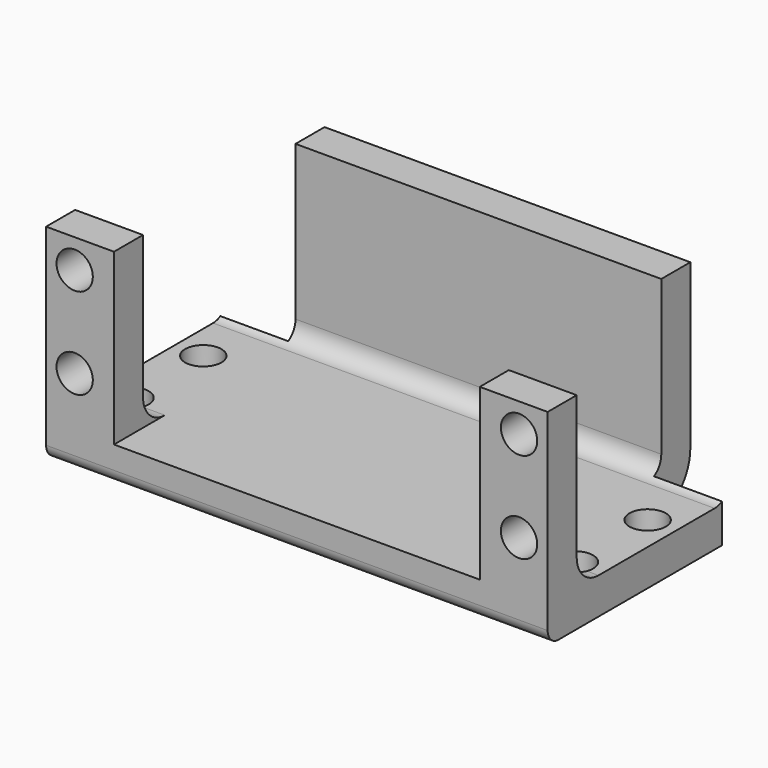
from build123d import *

# Parameters (mm, degrees)
CYLINDER015_R          = 2
CYLINDER015_DEPTH      = 15
CYLINDER015_ROLL_ANGLE = 90
CYLINDER007_R          = 2
CYLINDER007_DEPTH      = 15
CYLINDER006_R          = 2
CYLINDER006_DEPTH      = 15
CYLINDER005_R          = 2
CYLINDER005_DEPTH      = 15
CYLINDER004_R          = 2
CYLINDER004_DEPTH      = 15
CYLINDER003_R          = 2
CYLINDER003_DEPTH      = 15
CYLINDER003_ROLL_ANGLE = 90
CYLINDER002_R          = 2
CYLINDER002_DEPTH      = 15
CYLINDER002_ROLL_ANGLE = 90
CYLINDER001_R          = 2
CYLINDER001_DEPTH      = 15
CYLINDER001_ROLL_ANGLE = 90
CYLINDER_R             = 2
CYLINDER_DEPTH         = 15
CYLINDER_ROLL_ANGLE    = 90
PAD002_DEPTH           = 40.3
BOX_W                  = 40.3
BOX_H                  = 15
BOX_DEPTH              = 25
PAD003_DEPTH           = 55.26
FILLET_R               = 3
FILLET001_R            = 1.5
FILLET002_R            = 2
FILLET005_R            = 5


with BuildPart() as cilindro015:
    # Cylinder015 → Cylinder015 (new body)
    with BuildSketch(Plane.XY):
        Circle(CYLINDER015_R)
    extrude(amount=CYLINDER015_DEPTH)


with BuildPart() as cilindro015_1:
    # Cylinder015 roll: moved
    add(cilindro015.part.rotate(Axis((0, 0, 0), (1, 0, 0)), CYLINDER015_ROLL_ANGLE))


with BuildPart() as cilindro015_2:
    # Cylinder015 placement: moved
    add(cilindro015_1.part.moved(Location((-24.48, 4.65, 15.01))))


with BuildPart() as cilindro007:
    # Cylinder007 → Cylinder007 (new body)
    with BuildSketch(Plane(origin=(24.48, 10.01, -12.65), x_dir=(1, 0, 0), z_dir=(0, 0, 1))):
        Circle(CYLINDER007_R)
    extrude(amount=CYLINDER007_DEPTH)


with BuildPart() as cilindro006:
    # Cylinder006 → Cylinder006 (new body)
    with BuildSketch(Plane(origin=(-24.48, -0.01, -12.65), x_dir=(1, 0, 0), z_dir=(0, 0, 1))):
        Circle(CYLINDER006_R)
    extrude(amount=CYLINDER006_DEPTH)


with BuildPart() as cilindro005:
    # Cylinder005 → Cylinder005 (new body)
    with BuildSketch(Plane(origin=(24.48, -0.01, -12.65), x_dir=(1, 0, 0), z_dir=(0, 0, 1))):
        Circle(CYLINDER005_R)
    extrude(amount=CYLINDER005_DEPTH)


with BuildPart() as cilindro004:
    # Cylinder004 → Cylinder004 (new body)
    with BuildSketch(Plane(origin=(-24.48, 10.01, -12.65), x_dir=(1, 0, 0), z_dir=(0, 0, 1))):
        Circle(CYLINDER004_R)
    extrude(amount=CYLINDER004_DEPTH)


with BuildPart() as cilindro003:
    # Cylinder003 → Cylinder003 (new body)
    with BuildSketch(Plane.XY):
        Circle(CYLINDER003_R)
    extrude(amount=CYLINDER003_DEPTH)


with BuildPart() as cilindro003_1:
    # Cylinder003 roll: moved
    add(cilindro003.part.rotate(Axis((0, 0, 0), (1, 0, 0)), CYLINDER003_ROLL_ANGLE))


with BuildPart() as cilindro003_2:
    # Cylinder003 placement: moved
    add(cilindro003_1.part.moved(Location((-24.48, 4.65, 4.99))))


with BuildPart() as cilindro002:
    # Cylinder002 → Cylinder002 (new body)
    with BuildSketch(Plane.XY):
        Circle(CYLINDER002_R)
    extrude(amount=CYLINDER002_DEPTH)


with BuildPart() as cilindro002_1:
    # Cylinder002 roll: moved
    add(cilindro002.part.rotate(Axis((0, 0, 0), (1, 0, 0)), CYLINDER002_ROLL_ANGLE))


with BuildPart() as cilindro002_2:
    # Cylinder002 placement: moved
    add(cilindro002_1.part.moved(Location((-24.48, 4.65, 15.01))))


with BuildPart() as cilindro001:
    # Cylinder001 → Cylinder001 (new body)
    with BuildSketch(Plane.XY):
        Circle(CYLINDER001_R)
    extrude(amount=CYLINDER001_DEPTH)


with BuildPart() as cilindro001_1:
    # Cylinder001 roll: moved
    add(cilindro001.part.rotate(Axis((0, 0, 0), (1, 0, 0)), CYLINDER001_ROLL_ANGLE))


with BuildPart() as cilindro001_2:
    # Cylinder001 placement: moved
    add(cilindro001_1.part.moved(Location((24.48, 4.65, 4.99))))


with BuildPart() as cilindro:
    # Cylinder → Cylinder (new body)
    with BuildSketch(Plane.XY):
        Circle(CYLINDER_R)
    extrude(amount=CYLINDER_DEPTH)


with BuildPart() as cilindro_1:
    # Cylinder roll: moved
    add(cilindro.part.rotate(Axis((0, 0, 0), (1, 0, 0)), CYLINDER_ROLL_ANGLE))


with BuildPart() as cilindro_2:
    # Cylinder placement: moved
    add(cilindro_1.part.moved(Location((24.48, 4.65, 15.01))))


with BuildPart() as pad002:
    # Sketch002 → Pad002 (new body)
    with BuildSketch(Plane.YZ.offset(-20.15)):
        Polygon((17.3, 18.5), (21.3, 18.5), (21.3, -4.5), (-7.7, -4.5), (-7.7, -0.5), (17.3, -0.5), align=None)
    extrude(amount=PAD002_DEPTH)


with BuildPart() as cubo:
    # Box → Box (new body)
    with BuildSketch(Plane(origin=(-20.15, -12.7, -2.5), x_dir=(1, 0, 0), z_dir=(0, 0, 1))):
        with Locations((20.15, 7.5)):
            Rectangle(BOX_W, BOX_H)
    extrude(amount=BOX_DEPTH)


with BuildPart() as pieza1v1:
    # Sketch003 → Pad003 (new body)
    with BuildSketch(Plane.YZ.offset(-27.63)):
        Polygon((-7.7, -4.5), (16.3, -4.5), (16.3, -0.5), (-3.7, -0.5), (-3.7, 18.2), (-7.7, 18.2), align=None)
    extrude(amount=PAD003_DEPTH)

    # Cut: cut Cubo
    add(cubo.part, mode=Mode.SUBTRACT)

    # Fusion: union Pad002
    add(pad002.part)

    # Fillet
    fillet_edges = [pieza1v1.edges().sort_by_distance(p)[0] for p in [
        (-23.89, -3.7, -0.5),
        (23.89, -3.7, -0.5),
    ]]
    fillet(fillet_edges, radius=FILLET_R)

    # Fillet001
    fillet001_edges = [pieza1v1.edges().sort_by_distance(p)[0] for p in [
        (0, -7.7, -4.5),
    ]]
    fillet(fillet001_edges, radius=FILLET001_R)

    # Fillet002
    fillet002_edges = [pieza1v1.edges().sort_by_distance(p)[0] for p in [
        (0, 17.3, -0.5),
    ]]
    fillet(fillet002_edges, radius=FILLET002_R)

    # Fillet005
    fillet005_edges = [pieza1v1.edges().sort_by_distance(p)[0] for p in [
        (0, 21.3, -4.5),
    ]]
    fillet(fillet005_edges, radius=FILLET005_R)

    # Cut015: cut Cilindro
    add(cilindro_2.part, mode=Mode.SUBTRACT)

    # Cut016: cut Cilindro001
    add(cilindro001_2.part, mode=Mode.SUBTRACT)

    # Cut017: cut Cilindro002
    add(cilindro002_2.part, mode=Mode.SUBTRACT)

    # Cut018: cut Cilindro003
    add(cilindro003_2.part, mode=Mode.SUBTRACT)

    # Cut019: cut Cilindro004
    add(cilindro004.part, mode=Mode.SUBTRACT)

    # Cut020: cut Cilindro005
    add(cilindro005.part, mode=Mode.SUBTRACT)

    # Cut021: cut Cilindro006
    add(cilindro006.part, mode=Mode.SUBTRACT)

    # Cut022: cut Cilindro007
    add(cilindro007.part, mode=Mode.SUBTRACT)

    # Cut023: cut Cilindro015
    add(cilindro015_2.part, mode=Mode.SUBTRACT)


with BuildPart() as pieza1v1_1:
    # Cut023 placement: moved
    add(pieza1v1.part.moved(Location((10.1, -0.05, -10))))


solid = pieza1v1_1.part
